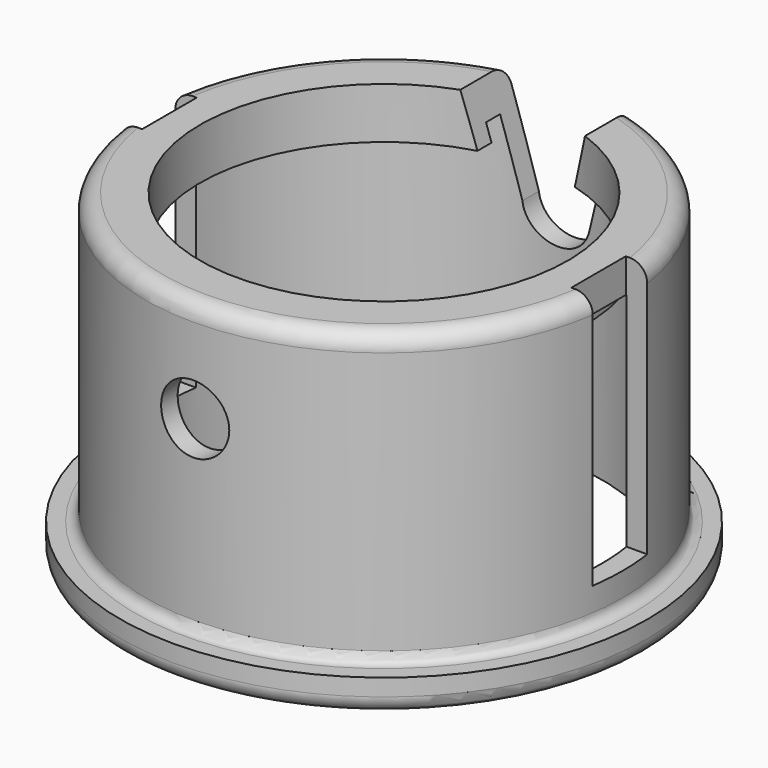
from build123d import *

# Parameters (mm, degrees)
BOX004_W               = 20
BOX004_H               = 20
BOX004_DEPTH           = 80
BOX003_W               = 20
BOX003_H               = 20
BOX003_DEPTH           = 80
BOX002_W               = 10
BOX002_H               = 25
BOX002_DEPTH           = 35
BOX002_PITCH_ANGLE     = -15
BOX001_W               = 10
BOX001_H               = 25
BOX001_DEPTH           = 35
BOX001_PITCH_ANGLE     = 15
BOX_W                  = 20
BOX_H                  = 25
BOX_DEPTH              = 35
CYLINDER005_R          = 10
CYLINDER005_DEPTH      = 180
CYLINDER005_ROLL_ANGLE = 90
CYLINDER004_R          = 54
CYLINDER004_DEPTH      = 100
CYLINDER003_R          = 59
CYLINDER003_DEPTH      = 10
CYLINDER002_R          = 64
CYLINDER002_DEPTH      = 85
CYLINDER001_R          = 70
CYLINDER001_DEPTH      = 90
CYLINDER_R             = 77.5
CYLINDER_DEPTH         = 10
FILLET_R               = 3
FILLET001_R            = 5
FILLET002_R            = 5


with BuildPart() as tab_cut_l:
    # Box004 → Box004 (new body)
    with BuildSketch(Plane(origin=(-83, -10, 20), x_dir=(1, 0, 0), z_dir=(0, 0, 1))):
        with Locations((10, 10)):
            Rectangle(BOX004_W, BOX004_H)
    extrude(amount=BOX004_DEPTH)


with BuildPart() as tab_cut_r:
    # Box003 → Box003 (new body)
    with BuildSketch(Plane(origin=(63, -10, 20), x_dir=(1, 0, 0), z_dir=(0, 0, 1))):
        with Locations((10, 10)):
            Rectangle(BOX003_W, BOX003_H)
    extrude(amount=BOX003_DEPTH)


with BuildPart() as cube001:
    # Box002 → Box002 (new body)
    with BuildSketch(Plane.XY):
        with Locations((5, 12.5)):
            Rectangle(BOX002_W, BOX002_H)
    extrude(amount=BOX002_DEPTH)


with BuildPart() as cube001_1:
    # Box002 pitch: moved
    add(cube001.part.rotate(Axis((0, 0, 0), (0, 1, 0)), BOX002_PITCH_ANGLE))


with BuildPart() as cube001_2:
    # Box002 placement: moved
    add(cube001_1.part.moved(Location((-9.95, 48, 64))))


with BuildPart() as cube:
    # Box001 → Box001 (new body)
    with BuildSketch(Plane.XY):
        with Locations((5, 12.5)):
            Rectangle(BOX001_W, BOX001_H)
    extrude(amount=BOX001_DEPTH)


with BuildPart() as cube_1:
    # Box001 pitch: moved
    add(cube.part.rotate(Axis((0, 0, 0), (0, 1, 0)), BOX001_PITCH_ANGLE))


with BuildPart() as cube_2:
    # Box001 placement: moved
    add(cube_1.part.moved(Location((0, 48, 65))))


with BuildPart() as bearing_slot:
    # Box → Box (new body)
    with BuildSketch(Plane(origin=(-10, 48, 65), x_dir=(1, 0, 0), z_dir=(0, 0, 1))):
        with Locations((10, 12.5)):
            Rectangle(BOX_W, BOX_H)
    extrude(amount=BOX_DEPTH)


with BuildPart() as bearing_holes:
    # Cylinder005 → Cylinder005 (new body)
    with BuildSketch(Plane.XY):
        Circle(CYLINDER005_R)
    extrude(amount=CYLINDER005_DEPTH)


with BuildPart() as bearing_holes_1:
    # Cylinder005 roll: moved
    add(bearing_holes.part.rotate(Axis((0, 0, 0), (1, 0, 0)), CYLINDER005_ROLL_ANGLE))


with BuildPart() as bearing_holes_2:
    # Cylinder005 placement: moved
    add(bearing_holes_1.part.moved(Location((0, 90, 65))))


with BuildPart() as through_hole:
    # Cylinder004 → Cylinder004 (new body)
    with BuildSketch(Plane.XY):
        Circle(CYLINDER004_R)
    extrude(amount=CYLINDER004_DEPTH)


with BuildPart() as inner_lip:
    # Cylinder003 → Cylinder003 (new body)
    with BuildSketch(Plane.XY.offset(80)):
        Circle(CYLINDER003_R)
    extrude(amount=CYLINDER003_DEPTH)


with BuildPart() as inner_hole:
    # Cylinder002 → Cylinder002 (new body)
    with BuildSketch(Plane.XY):
        Circle(CYLINDER002_R)
    extrude(amount=CYLINDER002_DEPTH)


with BuildPart() as body_cylinder:
    # Cylinder001 → Cylinder001 (new body)
    with BuildSketch(Plane.XY.offset(5)):
        Circle(CYLINDER001_R)
    extrude(amount=CYLINDER001_DEPTH)


with BuildPart() as cut007:
    # Cylinder → Cylinder (new body)
    with BuildSketch(Plane.XY):
        Circle(CYLINDER_R)
    extrude(amount=CYLINDER_DEPTH)

    # Fusion: union Body_Cylinder
    add(body_cylinder.part)

    # Cut: cut Inner_Hole
    add(inner_hole.part, mode=Mode.SUBTRACT)

    # Fusion001: union Inner_Lip
    add(inner_lip.part)

    # Cut001: cut Through_Hole
    add(through_hole.part, mode=Mode.SUBTRACT)

    # Fillet
    fillet_edges = [cut007.edges().sort_by_distance(p)[0] for p in [
        (-70, 0, 10),
    ]]
    fillet(fillet_edges, radius=FILLET_R)

    # Fillet001
    fillet001_edges = [cut007.edges().sort_by_distance(p)[0] for p in [
        (-77.5, 0, 0),
    ]]
    fillet(fillet001_edges, radius=FILLET001_R)

    # Fillet002
    fillet002_edges = [cut007.edges().sort_by_distance(p)[0] for p in [
        (-70, 0, 95),
    ]]
    fillet(fillet002_edges, radius=FILLET002_R)

    # Cut002: cut Bearing_Holes
    add(bearing_holes_2.part, mode=Mode.SUBTRACT)

    # Cut003: cut Bearing_Slot
    add(bearing_slot.part, mode=Mode.SUBTRACT)

    # Cut004: cut Cube
    add(cube_2.part, mode=Mode.SUBTRACT)

    # Cut005: cut Cube001
    add(cube001_2.part, mode=Mode.SUBTRACT)

    # Cut006: cut Tab_Cut_R
    add(tab_cut_r.part, mode=Mode.SUBTRACT)

    # Cut007: cut Tab_Cut_L
    add(tab_cut_l.part, mode=Mode.SUBTRACT)


solid = cut007.part
